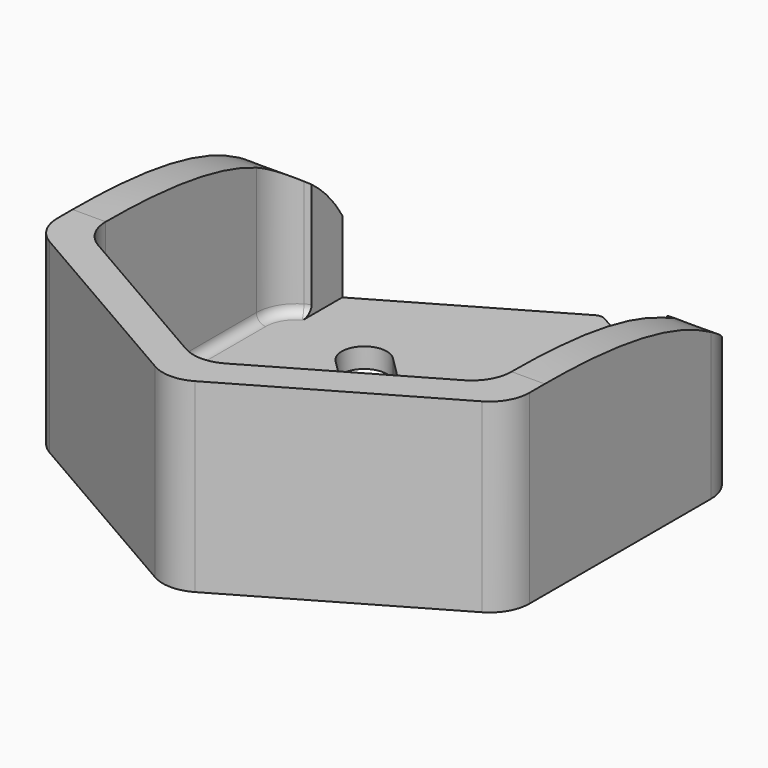
from build123d import *

# Parameters (mm, degrees)
F1_DEPTH = 1.5
F2_DEPTH = 14
F4_W     = 26.8
F4_H     = 15.749622
F5_DEPTH = 26
F6_R     = 3
F7_R     = 0.7
F9_DEPTH = 18.8


with BuildPart() as f1:
    # F0 (on Top) → F1 (new body)
    with BuildSketch(Plane.XY):
        Polygon((0, -17.666918), (15.3, -8.833459), (15.3, 8.833459), (0, 17.666918), (-15.3, 8.833459), (-15.3, -8.833459), align=None)
        with BuildLine():
            ThreePointArc((-6.22254, -8.626703), (-8.626703, -8.626703), (-8.626703, -6.22254))
            Line((-8.626703, -6.22254), (-6.505382, -4.101219))
            ThreePointArc((-6.505382, -4.101219), (-4.101219, -4.101219), (-4.101219, -6.505382))
            Line((-4.101219, -6.505382), (-6.22254, -8.626703))
        make_face(mode=Mode.SUBTRACT)
        with BuildLine():
            ThreePointArc((8.626703, -6.22254), (8.626703, -8.626703), (6.22254, -8.626703))
            Line((6.22254, -8.626703), (4.101219, -6.505382))
            ThreePointArc((4.101219, -6.505382), (4.101219, -4.101219), (6.505382, -4.101219))
            Line((6.505382, -4.101219), (8.626703, -6.22254))
        make_face(mode=Mode.SUBTRACT)
        with BuildLine():
            ThreePointArc((-8.626703, 6.22254), (-8.626703, 8.626703), (-6.22254, 8.626703))
            Line((-6.22254, 8.626703), (-4.101219, 6.505382))
            ThreePointArc((-4.101219, 6.505382), (-4.101219, 4.101219), (-6.505382, 4.101219))
            Line((-6.505382, 4.101219), (-8.626703, 6.22254))
        make_face(mode=Mode.SUBTRACT)
        with BuildLine():
            Line((4.101219, 6.505382), (6.22254, 8.626703))
            ThreePointArc((6.22254, 8.626703), (8.626703, 8.626703), (8.626703, 6.22254))
            Line((8.626703, 6.22254), (6.505382, 4.101219))
            ThreePointArc((6.505382, 4.101219), (4.101219, 4.101219), (4.101219, 6.505382))
        make_face(mode=Mode.SUBTRACT)
    extrude(amount=F1_DEPTH)

    # F0 (on Top) → F2 (join)
    with BuildSketch(Plane.XY):
        Polygon((-17.8, 10.276835), (-17.8, -10.276835), (0, -20.55367), (17.8, -10.276835), (17.8, 10.276835), (0, 20.55367), align=None)
        Polygon((15.3, 8.833459), (15.3, -8.833459), (0, -17.666918), (-15.3, -8.833459), (-15.3, 8.833459), (0, 17.666918), align=None, mode=Mode.SUBTRACT)
    extrude(amount=F2_DEPTH)

    # F4 (on offset) → F5 (cut)
    with BuildSketch(Plane.XZ.offset(-25)):
        with Locations((0, 9.374811)):
            Rectangle(F4_W, F4_H)
    extrude(amount=F5_DEPTH, mode=Mode.SUBTRACT)

    # F6
    f6_edges = [f1.edges().sort_by_distance(p)[0] for p in [
        (17.8, 10.276835, 7),
        (-17.8, 10.276835, 7),
        (-17.8, -10.276835, 7),
        (0, -20.55367, 7),
        (17.8, -10.276835, 7),
        (15.3, 8.833459, 7.75),
        (15.3, -8.833459, 7.75),
        (0, -17.666918, 7.75),
        (-15.3, -8.833459, 7.75),
        (-15.3, 8.833459, 7.75),
    ]]
    fillet(f6_edges, radius=F6_R)

    # F7
    f7_edges = [f1.edges().sort_by_distance(p)[0] for p in [
        (-13.6, 9.814955, 1.5),
        (0, 20.55367, 0.75),
    ]]
    fillet(f7_edges, radius=F7_R)

    # F8 (on Right) → F9 (cut, symmetric)
    with BuildSketch(Plane.YZ):
        with BuildLine():
            Line((13.07399, 14), (-7.101408, 14))
            add(Edge.make_bspline(
                [(-7.101408, 14), (4.434353, 14), (10.286969, 11.588226), (13.07399, 6.5)],
                knots=[0, 0, 0, 0, 21.524328, 21.524328, 21.524328, 21.524328], degree=3))
            Line((13.07399, 6.5), (13.07399, 14))
        make_face()
    extrude(amount=F9_DEPTH, both=True, mode=Mode.SUBTRACT)


solid = f1.part
